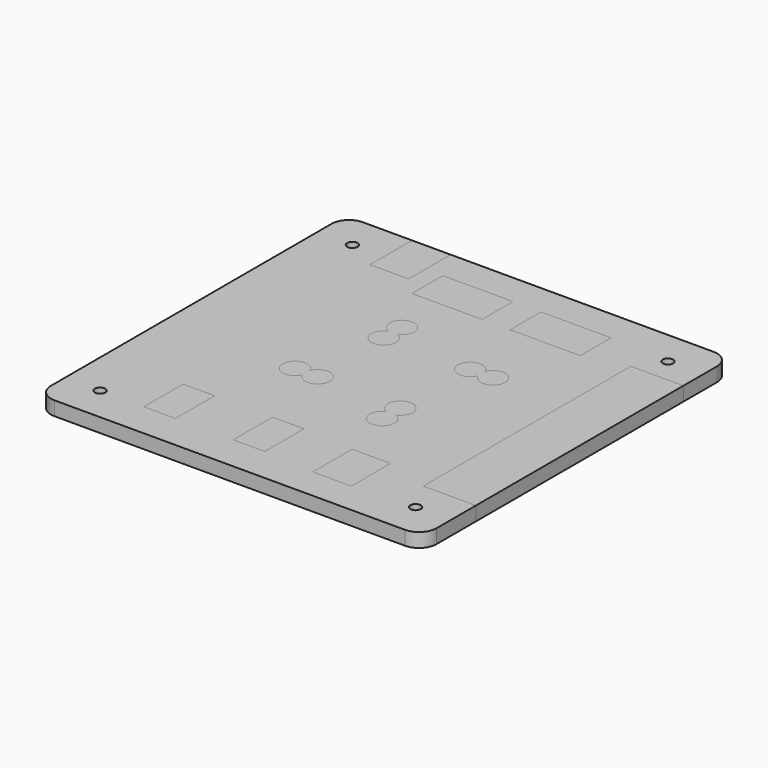
from build123d import *

# Parameters (mm, degrees)
SKETCH_W        = 110
SKETCH_H        = 110
PAD_DEPTH       = 4
SKETCH001_R     = 1.5
POCKET_DEPTH    = 4
FILLET_R        = 5
SKETCH002_W     = 110
SKETCH002_H     = 110
PAD001_DEPTH    = 4
SKETCH003_R     = 1.5
POCKET001_DEPTH = 4
FILLET001_R     = 5
SKETCH004_W     = 15
SKETCH004_H     = 74
SKETCH004_W_2   = 11
SKETCH004_H_2   = 15
POCKET002_DEPTH = 4
SKETCH005_W     = 20
SKETCH005_H     = 11
SKETCH005_W_2   = 9
SKETCH005_H_2   = 14
SKETCH005_W_3   = 11
POCKET003_DEPTH = 4
POCKET004_DEPTH = 4


with BuildPart() as bottom:
    # Sketch → Pad (new body)
    with BuildSketch(Plane.XY):
        Rectangle(SKETCH_W, SKETCH_H)
    extrude(amount=PAD_DEPTH)

    # Sketch001 (on Face6 of Pad) → Pocket (cut)
    with BuildSketch(Plane.XY.offset(4)):
        with Locations((-45, 45)):
            Circle(SKETCH001_R)
        with Locations((45, 45)):
            Circle(SKETCH001_R)
        with Locations((-45, -45)):
            Circle(SKETCH001_R)
        with Locations((45, -45)):
            Circle(SKETCH001_R)
    extrude(amount=-POCKET_DEPTH, mode=Mode.SUBTRACT)

    # Fillet
    fillet_edges = [bottom.edges().sort_by_distance(p)[0] for p in [
        (55, -55, 2),
        (-55, -55, 2),
        (55, 55, 2),
        (-55, 55, 2),
    ]]
    fillet(fillet_edges, radius=FILLET_R)


with BuildPart() as top:
    # Sketch002 → Pad001 (new body)
    with BuildSketch(Plane.XY):
        Rectangle(SKETCH002_W, SKETCH002_H)
    extrude(amount=PAD001_DEPTH)

    # Sketch003 (on Face6 of Pad001) → Pocket001 (cut)
    with BuildSketch(Plane.XY.offset(4)):
        with Locations((-45, 45)):
            Circle(SKETCH003_R)
        with Locations((45, 45)):
            Circle(SKETCH003_R)
        with Locations((-45, -45)):
            Circle(SKETCH003_R)
        with Locations((45, -45)):
            Circle(SKETCH003_R)
    extrude(amount=-POCKET001_DEPTH, mode=Mode.SUBTRACT)

    # Fillet001
    fillet001_edges = [top.edges().sort_by_distance(p)[0] for p in [
        (55, -55, 2),
        (-55, -55, 2),
        (55, 55, 2),
        (-55, 55, 2),
    ]]
    fillet(fillet001_edges, radius=FILLET001_R)

    # Sketch004 (on Face5 of Fillet001) → Pocket002 (cut)
    with BuildSketch(Plane.XY.offset(4)):
        with Locations((47.5, 1)):
            Rectangle(SKETCH004_W, SKETCH004_H)
        with Locations((-30.5, 47.5)):
            Rectangle(SKETCH004_W_2, SKETCH004_H_2)
    extrude(amount=-POCKET002_DEPTH, mode=Mode.SUBTRACT)

    # Sketch005 (on Face4 of Pocket002) → Pocket003 (cut)
    with BuildSketch(Plane.XY.offset(4)):
        with Locations((-10, 40.5)):
            Rectangle(SKETCH005_W, SKETCH005_H)
        with Locations((18, 40.5)):
            Rectangle(SKETCH005_W, SKETCH005_H)
        with Locations((-28, -38)):
            Rectangle(SKETCH005_W_2, SKETCH005_H_2)
        with Locations((-2.5, -38)):
            Rectangle(SKETCH005_W_2, SKETCH005_H_2)
        with Locations((22, -39)):
            Rectangle(SKETCH005_W_3, SKETCH005_H_2)
    extrude(amount=-POCKET003_DEPTH, mode=Mode.SUBTRACT)

    # Sketch006 (on Face4 of Pocket003) → Pocket004 (cut)
    with BuildSketch(Plane.XY.offset(4)):
        with BuildLine():
            ThreePointArc((-12.799038, 17.55), (-11.5, 10.8), (-10.200962, 17.55))
            ThreePointArc((-10.200962, 17.55), (-11.5, 24.3), (-12.799038, 17.55))
        make_face()
        with BuildLine():
            ThreePointArc((16.25, 15.799038), (9.5, 14.5), (16.25, 13.200962))
            ThreePointArc((16.25, 13.200962), (23, 14.5), (16.25, 15.799038))
        make_face()
        with BuildLine():
            ThreePointArc((13.799038, -13.05), (12.5, -6.3), (11.200962, -13.05))
            ThreePointArc((11.200962, -13.05), (12.5, -19.8), (13.799038, -13.05))
        make_face()
        with BuildLine():
            ThreePointArc((-14.55, -10.799038), (-7.8, -9.5), (-14.55, -8.200962))
            ThreePointArc((-14.55, -8.200962), (-21.3, -9.5), (-14.55, -10.799038))
        make_face()
    extrude(amount=-POCKET004_DEPTH, mode=Mode.SUBTRACT)


solid = Compound([bottom.part, top.part])
